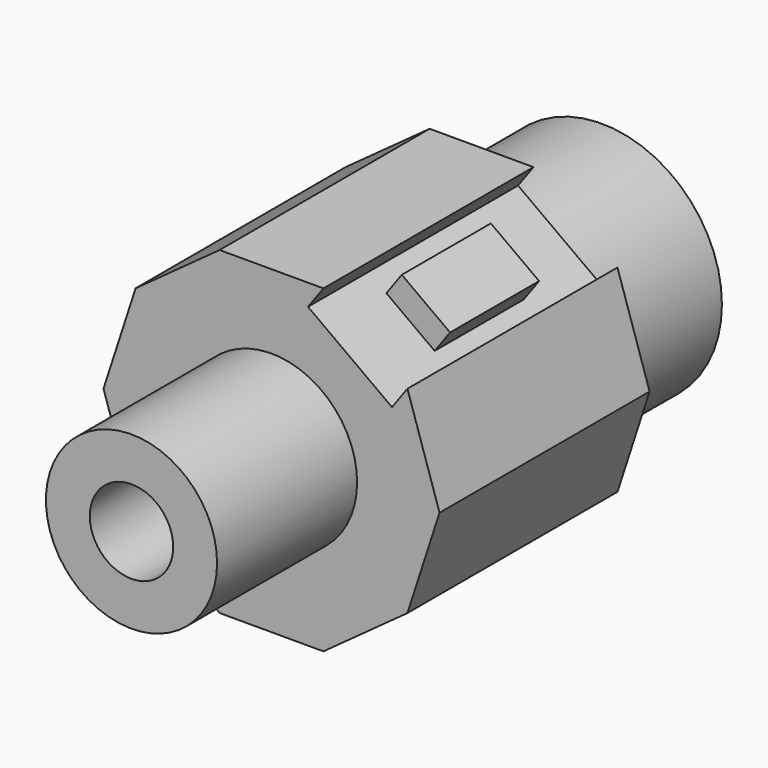
from build123d import *

# Parameters (mm, degrees)
F1_DEPTH = 76.2
F2_R     = 14.9020196794
F3_DEPTH = 30.48
F4_R     = 20.9265916745
F5_DEPTH = 26.162
F6_W     = 18.0814868103
F6_H     = 45.72
F6_W_2   = 10.3915287182
F6_H_2   = 19.3799102616
F7_DEPTH = 4.572
F8_R     = 7.2599789629
F9_DEPTH = 110.998


with BuildPart() as f1:
    # F0 (on Front) → F1 (new body)
    with BuildSketch(Plane.XZ):
        Polygon((9.0407434051, 27.8245471418), (-9.0407434051, 27.8245471418), (-23.6689735182, 17.1965158552), (-29.2564602261, 0), (-23.6689735182, -17.1965158552), (-9.0407434051, -27.8245471418), (9.0407434051, -27.8245471418), (23.6689735182, -17.1965158552), (29.2564602261, 0), (23.6689735182, 17.1965158552), align=None)
    extrude(amount=F1_DEPTH)

    # F2 (on face) → F3 (cut)
    with BuildSketch(Plane.XZ.offset(76.2)):
        Polygon((29.2564602261, 0), (23.6689735182, 17.1965158552), (9.0407434051, 27.8245471418), (-9.0407434051, 27.8245471418), (-23.6689735182, 17.1965158552), (-29.2564602261, 0), (-23.6689735182, -17.1965158552), (-9.0407434051, -27.8245471418), (9.0407434051, -27.8245471418), (23.6689735182, -17.1965158552), align=None)
        Circle(F2_R, mode=Mode.SUBTRACT)
    extrude(amount=-F3_DEPTH, mode=Mode.SUBTRACT)

    # F4 (on Front) → F5 (join)
    with BuildSketch(Plane.XZ):
        Circle(F4_R)
    extrude(amount=-F5_DEPTH)

    # F6 (on face) → F7 (cut)
    with BuildSketch(Plane(origin=(16.3548584617, 0, 22.5105314985), x_dir=(0.8090169944, 0, -0.5877852523), z_dir=(0.5877852523, 0, 0.8090169944))):
        with Locations((0, -22.86)):
            Rectangle(F6_W, F6_H)
        with Locations((0, -22.86)):
            Rectangle(F6_W_2, F6_H_2, mode=Mode.SUBTRACT)
    extrude(amount=-F7_DEPTH, mode=Mode.SUBTRACT)

    # F8 (on face) → F9 (cut)
    with BuildSketch(Plane(origin=(0, 26.162, 0), x_dir=(-1, 0, 0), z_dir=(0, 1, 0))):
        Circle(F8_R)
    extrude(amount=-F9_DEPTH, mode=Mode.SUBTRACT)


solid = f1.part
